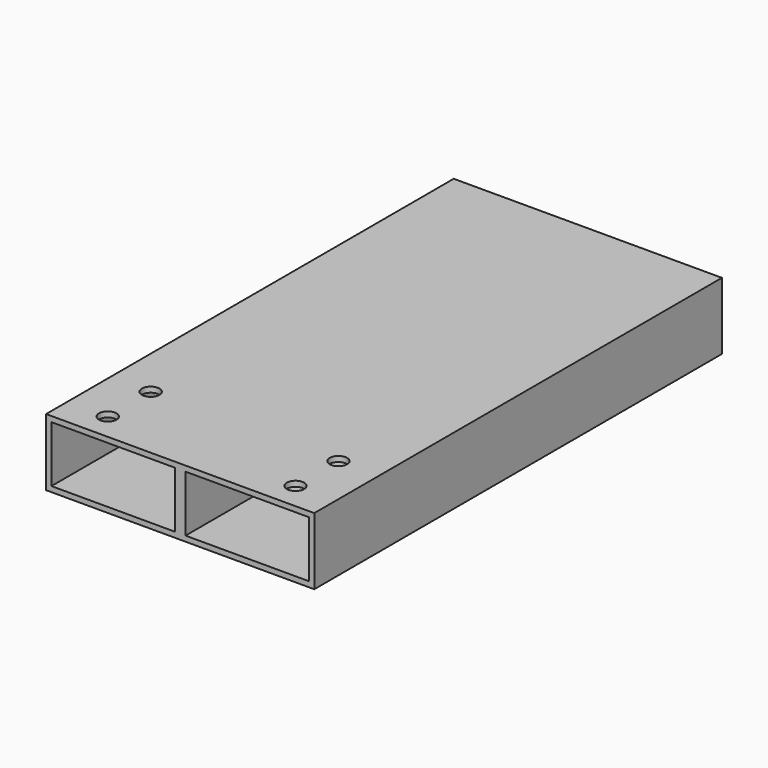
from build123d import *

# Parameters (mm, degrees)
SKETCH_W        = 100
SKETCH_H        = 25
SKETCH_W_2      = 46
SKETCH_H_2      = 21
PAD_DEPTH       = 190
SKETCH001_R     = 2.75
POCKET_DEPTH    = 2
SKETCH002_R     = 3.25
POCKET001_DEPTH = 2


with BuildPart() as part:
    # Sketch → Pad (new body)
    with BuildSketch(Plane.XZ):
        with Locations((0, 12.5)):
            Rectangle(SKETCH_W, SKETCH_H)
        with Locations((-25, 12.5)):
            Rectangle(SKETCH_W_2, SKETCH_H_2, mode=Mode.SUBTRACT)
        with Locations((25, 12.5)):
            Rectangle(SKETCH_W_2, SKETCH_H_2, mode=Mode.SUBTRACT)
    extrude(amount=PAD_DEPTH)

    # Sketch001 (on Face3 of Pad) → Pocket (cut)
    with BuildSketch(Plane(origin=(0, 0, 0), x_dir=(1, 0, 0), z_dir=(0, 0, -1))):
        with Locations((-29.982102, 89.999998)):
            Circle(SKETCH001_R)
        with Locations((30.017897, 89.986574)):
            Circle(SKETCH001_R)
        with Locations((-30, 10)):
            Circle(SKETCH001_R)
        with Locations((29.999998, 9.986576)):
            Circle(SKETCH001_R)
    extrude(amount=-POCKET_DEPTH, mode=Mode.SUBTRACT)

    # Sketch002 (on Face1 of Pocket) → Pocket001 (cut)
    with BuildSketch(Plane(origin=(0, 0, 25), x_dir=(-1, 0, 0), z_dir=(0, 0, 1))):
        with Locations((-35, 180)):
            Circle(SKETCH002_R)
        with Locations((35, 180)):
            Circle(SKETCH002_R)
        with Locations((-35, 160)):
            Circle(SKETCH002_R)
        with Locations((35, 160)):
            Circle(SKETCH002_R)
    extrude(amount=-POCKET001_DEPTH, mode=Mode.SUBTRACT)


solid = part.part
